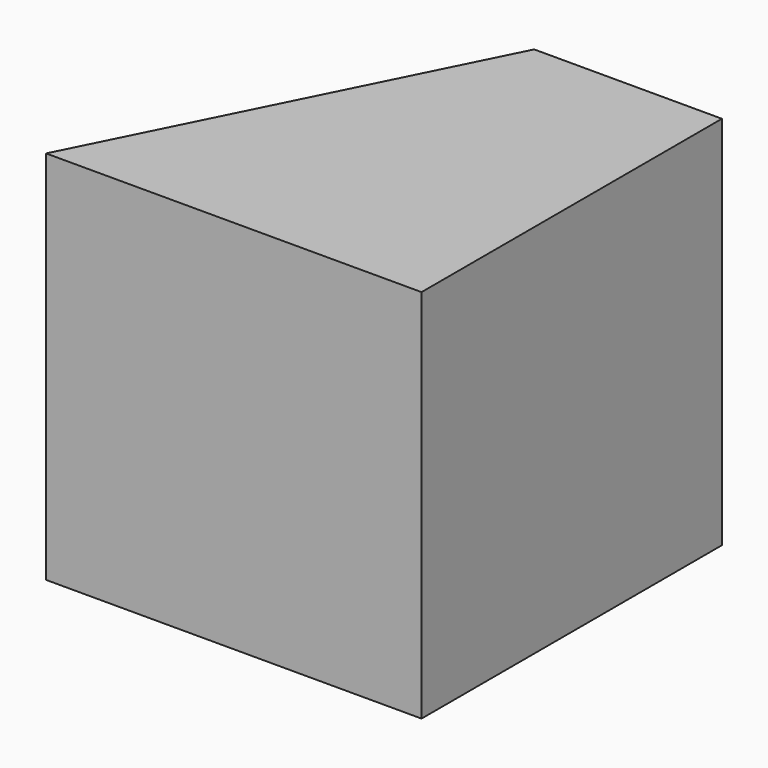
from build123d import *

# Parameters (mm, degrees)
F0_W     = 2540
F0_H     = 2540
F1_DEPTH = 2540
F6_DEPTH = 2540


with BuildPart() as f1:
    # F0 (on Front) → F1 (new body)
    with BuildSketch(Plane.XZ):
        with Locations((-3.33965756, 470.8689384087)):
            Rectangle(F0_W, F0_H)
    extrude(amount=F1_DEPTH)

    # F5 (on 3pt) → F6 (cut)
    with BuildSketch(Plane(origin=(-2.671726048, 1.335863024, 0), x_dir=(0.4472135955, 0.894427191, 0), z_dir=(0.894427191, -0.4472135955, 0))):
        Polygon((0, -799.3864417076), (0, 1789.1398668289), (-2858.9158058167, 1771.3314294815), (-2858.9158058167, -799.3864417076), align=None)
    extrude(amount=-F6_DEPTH, mode=Mode.SUBTRACT)


solid = f1.part
